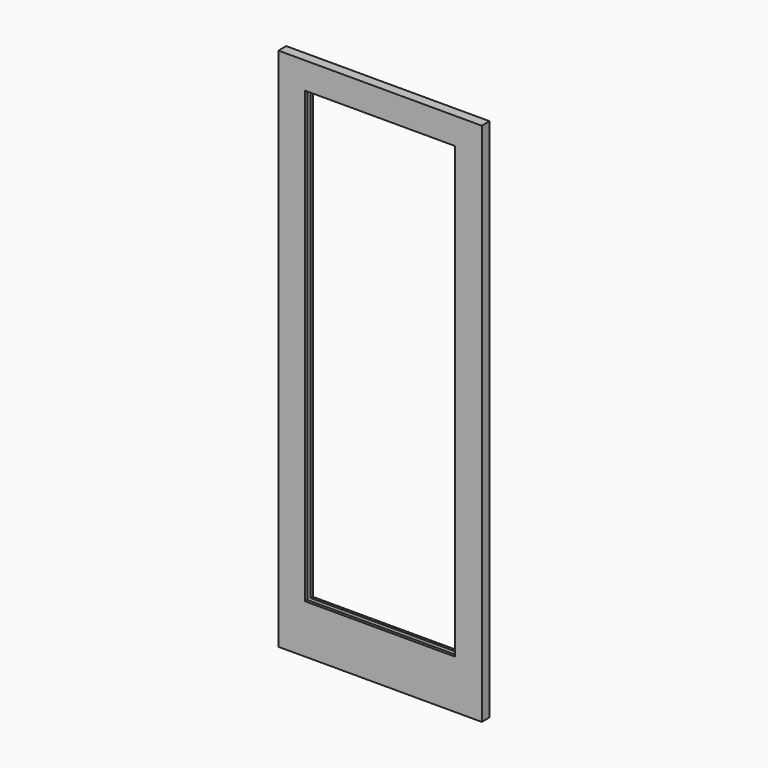
from build123d import *

# Parameters (mm, degrees)
F0_W     = 918
F0_H     = 2370
F0_W_2   = 678
F0_H_2   = 2030
F1_DEPTH = 44
F2_W     = 708
F2_H     = 2060
F2_W_2   = 678
F2_H_2   = 2030
F3_DEPTH = 31
F4_W     = 708
F4_H     = 2060
F4_W_2   = 678
F4_H_2   = 2030
F5_DEPTH = 12


with BuildPart() as f1:
    # F0 (on Front) → F1 (new body)
    with BuildSketch(Plane.XZ):
        with Locations((-459, 1185)):
            Rectangle(F0_W, F0_H)
        with Locations((-459, 1235)):
            Rectangle(F0_W_2, F0_H_2, mode=Mode.SUBTRACT)
    extrude(amount=F1_DEPTH)

    # F2 (on face) → F3 (cut)
    with BuildSketch(Plane(origin=(0, 0, 0), x_dir=(-1, 0, 0), z_dir=(0, 1, 0))):
        with Locations((459, 1235)):
            Rectangle(F2_W, F2_H)
        with Locations((459, 1235)):
            Rectangle(F2_W_2, F2_H_2, mode=Mode.SUBTRACT)
    extrude(amount=-F3_DEPTH, mode=Mode.SUBTRACT)

    # F4 (on face) → F5 (join)
    with BuildSketch(Plane(origin=(0, 0, 0), x_dir=(-1, 0, 0), z_dir=(0, 1, 0))):
        with Locations((459, 1235)):
            Rectangle(F4_W, F4_H)
        with Locations((459, 1235)):
            Rectangle(F4_W_2, F4_H_2, mode=Mode.SUBTRACT)
    extrude(amount=-F5_DEPTH)


solid = f1.part
